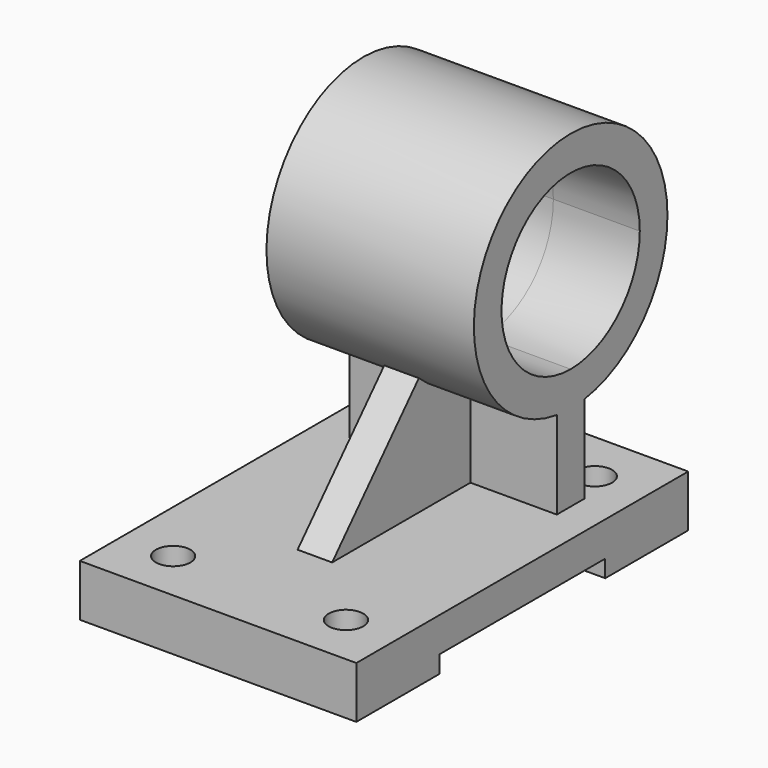
from build123d import *

# Parameters (mm, degrees)
F1_DEPTH      = 10
F3_DEPTH      = 25
F3_DEPTH_BACK = 35
F4_DEPTH      = 25
F5_W          = 80
F5_H          = 120
F5_W_2        = 10
F5_H_2        = 55
F6_DEPTH      = 15
F8_DEPTH      = 60
F9_W          = 60
F9_H          = 5
F10_DEPTH     = 80
F11_R         = 5
F12_DEPTH     = 51.887460053


with BuildPart() as f1:
    # F0 (on Right) → F1 (new body)
    with BuildSketch(Plane.YZ):
        Polygon((0, 0), (0, 60), (-55, 0), align=None)
    extrude(amount=F1_DEPTH)

    # F2 (on face) → F3 (join, two sides)
    with BuildSketch(Plane.YZ.offset(10)) as f3_sk:
        with BuildLine():
            ThreePointArc((0, 25), (24.7487373415, 35.2512626585), (35, 60))
            ThreePointArc((35, 60), (-14.0932134389, 92.0371867518), (-23.6503619981, 34.199605093))
            Line((-23.6503619981, 34.199605093), (-16.8931157129, 41.571146495))
            ThreePointArc((-16.8931157129, 41.571146495), (-10.0665810278, 82.8837048227), (25, 60))
            ThreePointArc((25, 60), (17.6776695297, 42.3223304703), (0, 35))
            Line((0, 35), (0, 25))
        make_face()
        with BuildLine():
            Line((-16.8931157129, 41.571146495), (-23.6503619981, 34.199605093))
            ThreePointArc((-23.6503619981, 34.199605093), (-12.688305211, 27.3808812064), (0, 25))
            Line((0, 25), (0, 35))
            ThreePointArc((0, 35), (-9.0630751507, 36.7006294331), (-16.8931157129, 41.571146495))
        make_face()
    extrude(amount=F3_DEPTH)
    extrude(f3_sk.sketch, amount=-F3_DEPTH_BACK)

    # F4 (cut): a face of the model
    f4_faces = [f1.faces().sort_by_distance(p)[0] for p in [
        (10, -5.9044146652, 44.8209197235),
    ]]
    extrude(f4_faces, amount=-F4_DEPTH, mode=Mode.SUBTRACT)

    # F5 (on face) → F6 (join)
    with BuildSketch(Plane(origin=(0, 0, 0), x_dir=(1, 0, 0), z_dir=(0, 0, -1))):
        with Locations((5, 30)):
            Rectangle(F5_W, F5_H)
        with Locations((5, 27.5)):
            Rectangle(F5_W_2, F5_H_2, mode=Mode.SUBTRACT)
        with Locations((5, 27.5)):
            Rectangle(F5_W_2, F5_H_2)
    extrude(amount=F6_DEPTH)

    # F7 (on face) → F8 (join, through all)
    with BuildSketch(Plane.YZ.offset(35)):
        with BuildLine():
            ThreePointArc((5, 25.3589838486), (0, 25), (-5, 25.3589838486))
            Line((-5, 25.3589838486), (-5, -0.8262397959))
            Line((-5, -0.8262397959), (-5, -1.0180029073))
            Line((-5, -1.0180029073), (5, -1.0180029073))
            Line((5, -1.0180029073), (5, 25.3589838486))
        make_face()
    extrude(amount=-F8_DEPTH)

    # F9 (on face) → F10 (cut)
    with BuildSketch(Plane.YZ.offset(45)):
        with Locations((-30, -12.5)):
            Rectangle(F9_W, F9_H)
    extrude(amount=-F10_DEPTH, mode=Mode.SUBTRACT)

    # F11 (on face) → F12 (cut)
    with BuildSketch(Plane.XY):
        with Locations((-20, -75)):
            Circle(F11_R)
        with Locations((30, -75)):
            Circle(F11_R)
        with Locations((30, 15)):
            Circle(F11_R)
        with Locations((-20, 15)):
            Circle(F11_R)
    extrude(amount=-F12_DEPTH, mode=Mode.SUBTRACT)


solid = f1.part
